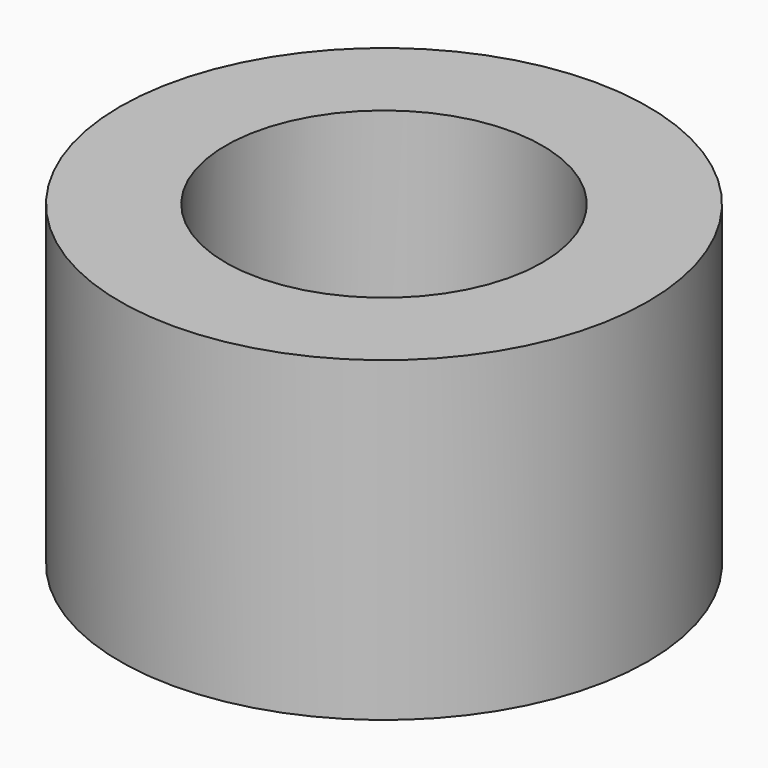
from build123d import *

# Parameters (mm, degrees)
F0_R     = 63.5
F0_R_2   = 38.1
F1_DEPTH = 76.2
F2_R     = 55.214467
F2_R_2   = 50.954627
F3_DEPTH = 38.1


with BuildPart() as f1:
    # F0 (on Top) → F1 (new body)
    with BuildSketch(Plane.XY):
        Circle(F0_R)
        Circle(F0_R_2, mode=Mode.SUBTRACT)
    extrude(amount=F1_DEPTH)

    # F2 (on Top) → F3 (cut)
    with BuildSketch(Plane.XY):
        Circle(F2_R)
        Circle(F2_R_2, mode=Mode.SUBTRACT)
    extrude(amount=F3_DEPTH, mode=Mode.SUBTRACT)


solid = f1.part
